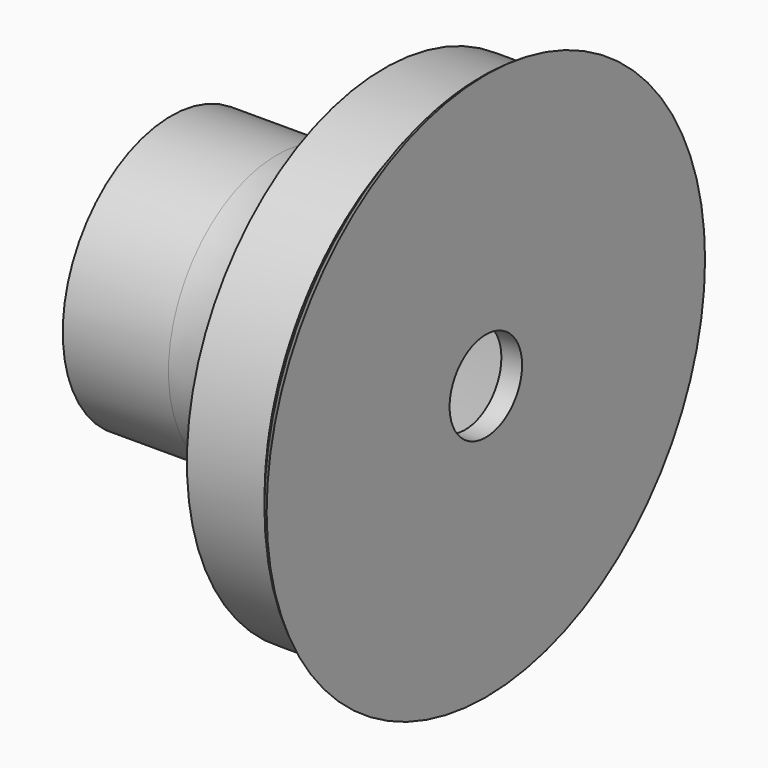
from build123d import *


with BuildPart() as f1:
    # F0 (on Top) → F1 (revolve)
    with BuildSketch(Plane.XY):
        with BuildLine():
            Line((6.299123168, 8.0723231658), (0, 8.0723231658))
            Line((0, 8.0723231658), (0, 2.7))
            Line((0, 2.7), (0.7973039756, 2.7))
            Line((0.7973039756, 2.7), (0.7973039756, 7.4821572516))
            Line((0.7973039756, 7.4821572516), (11.3427750766, 7.4821572516))
            Line((11.3427750766, 7.4821572516), (13.4250028059, 12.4526342142))
            Line((13.4250028059, 12.4526342142), (17.5222866237, 12.4526342142))
            Line((17.5222866237, 12.4526342142), (17.5222866237, 2.7))
            Line((17.5222866237, 2.7), (18.7556929142, 2.7))
            Line((18.7556929142, 2.7), (18.7556929142, 16.3292309035))
            add(Edge.make_bspline(
                [(18.7556929142, 16.3292309035), (18.221655704, 16.0332654172), (18.0049876402, 15.1450959339), (17.5470119144, 15.1350442094), (17.5, 14.7)],
                knots=[0, 0, 0, 0, 0.5782087767, 1, 1, 1, 1], degree=3))
            Line((17.5, 14.7), (12.7, 14.7))
            add(Edge.make_bspline(
                [(12.7, 14.7), (12.1672071333, 13.9104330713), (11.6907854648, 8.1694510905), (7.8663451048, 8.0675818664), (6.299123168, 8.0723231658)],
                knots=[0, 0, 0, 0, 0.5229179031, 1, 1, 1, 1], degree=3))
        make_face()
    revolve(axis=Axis((8.9877336286, 0, 0), (1, 0, 0)))


solid = f1.part
